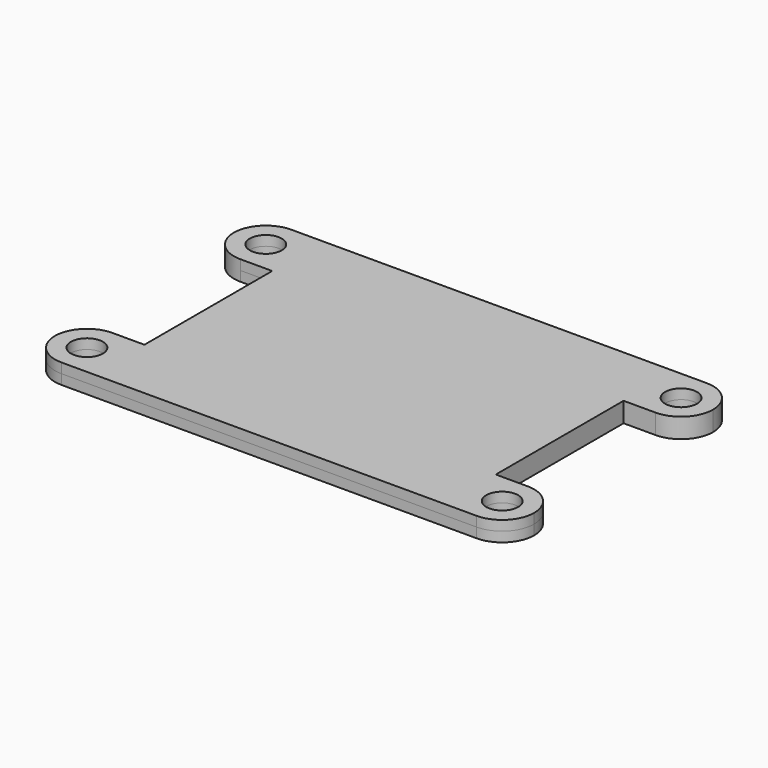
from build123d import *

# Parameters (mm, degrees)
F0_R     = 1.27
F1_DEPTH = 0.7874


with BuildPart() as f1:
    # F0 (on Top) → F1 (new body, symmetric)
    with BuildSketch(Plane.XY):
        Polygon((13.97, 6.35), (13.97, 11.43), (-13.97, 11.43), (-13.97, 6.35), (-13.97, -6.35), (-13.97, -11.43), (13.97, -11.43), (13.97, -6.35), align=None)
        with BuildLine():
            Line((-13.97, 6.35), (-13.97, 11.43))
            Line((-13.97, 11.43), (-16.51, 11.43))
            ThreePointArc((-16.51, 11.43), (-18.3060512242, 10.6860512242), (-19.05, 8.89))
            ThreePointArc((-19.05, 8.89), (-18.3060512242, 7.0939487758), (-16.51, 6.35))
            Line((-16.51, 6.35), (-13.97, 6.35))
        make_face()
        with Locations((-16.51, 8.89)):
            Circle(F0_R, mode=Mode.SUBTRACT)
        with BuildLine():
            Line((-13.97, -11.43), (-13.97, -6.35))
            Line((-13.97, -6.35), (-16.51, -6.35))
            ThreePointArc((-16.51, -6.35), (-18.3060512242, -7.0939487758), (-19.05, -8.89))
            ThreePointArc((-19.05, -8.89), (-18.3060512242, -10.6860512242), (-16.51, -11.43))
            Line((-16.51, -11.43), (-13.97, -11.43))
        make_face()
        with Locations((-16.51, -8.89)):
            Circle(F0_R, mode=Mode.SUBTRACT)
        with BuildLine():
            Line((16.51, -6.35), (13.97, -6.35))
            Line((13.97, -6.35), (13.97, -11.43))
            Line((13.97, -11.43), (16.51, -11.43))
            ThreePointArc((16.51, -11.43), (18.3060512242, -10.6860512242), (19.05, -8.89))
            ThreePointArc((19.05, -8.89), (18.3060512242, -7.0939487758), (16.51, -6.35))
        make_face()
        with Locations((16.51, -8.89)):
            Circle(F0_R, mode=Mode.SUBTRACT)
        with BuildLine():
            ThreePointArc((19.05, 8.89), (18.3060512242, 10.6860512242), (16.51, 11.43))
            Line((16.51, 11.43), (13.97, 11.43))
            Line((13.97, 11.43), (13.97, 6.35))
            Line((13.97, 6.35), (16.51, 6.35))
            ThreePointArc((16.51, 6.35), (18.3060512242, 7.0939487758), (19.05, 8.89))
        make_face()
        with Locations((16.51, 8.89)):
            Circle(F0_R, mode=Mode.SUBTRACT)
    extrude(amount=F1_DEPTH, both=True)


solid = f1.part
